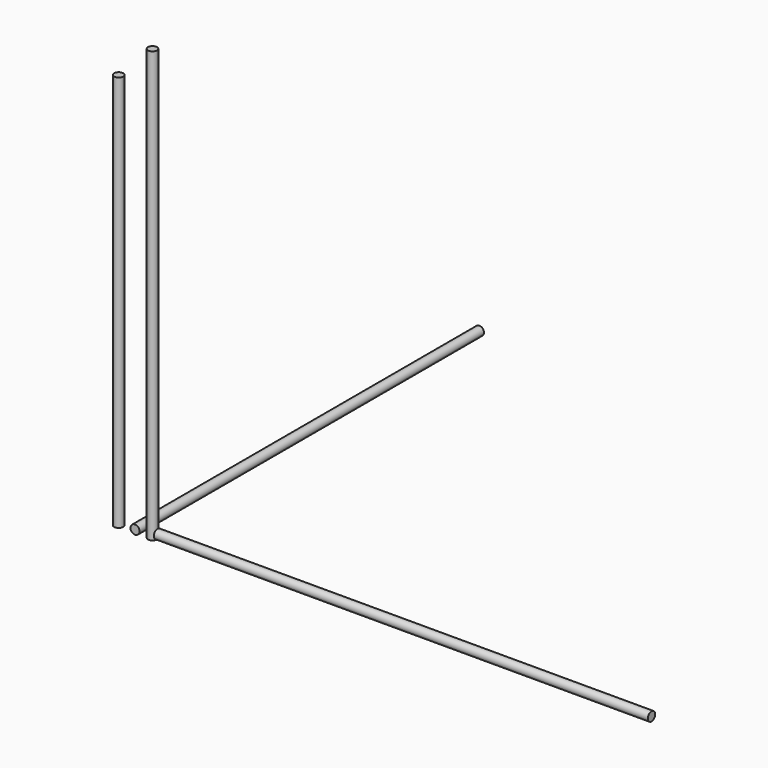
from build123d import *

# Parameters (mm, degrees)
F0_R     = 4
F1_DEPTH = 380
F2_R     = 4
F3_DEPTH = 380
F4_R     = 4
F5_DEPTH = 436
F6_DEPTH = 350


with BuildPart() as f1:
    # F0 (on Top) → F1 (new body)
    with BuildSketch(Plane.XY):
        with Locations((-3.999684, 4.025997)):
            Circle(F0_R)
    extrude(amount=F1_DEPTH)


with BuildPart() as f3:
    # F2 (on Front) → F3 (new body)
    with BuildSketch(Plane.XZ):
        with Locations((-16.235939, 4.03426)):
            Circle(F2_R)
    extrude(amount=-F3_DEPTH)


with BuildPart() as f5:
    # F4 (on Right) → F5 (new body)
    with BuildSketch(Plane.YZ):
        with Locations((4.5656, 4.12954)):
            Circle(F4_R)
    extrude(amount=F5_DEPTH)


with BuildPart() as f6:
    # F0 (on Top) → F6 (new body)
    with BuildSketch(Plane.XY):
        with Locations((-33.883933, 4.025997)):
            Circle(F0_R)
    extrude(amount=F6_DEPTH)


solid = Compound([f1.part, f3.part, f5.part, f6.part])
